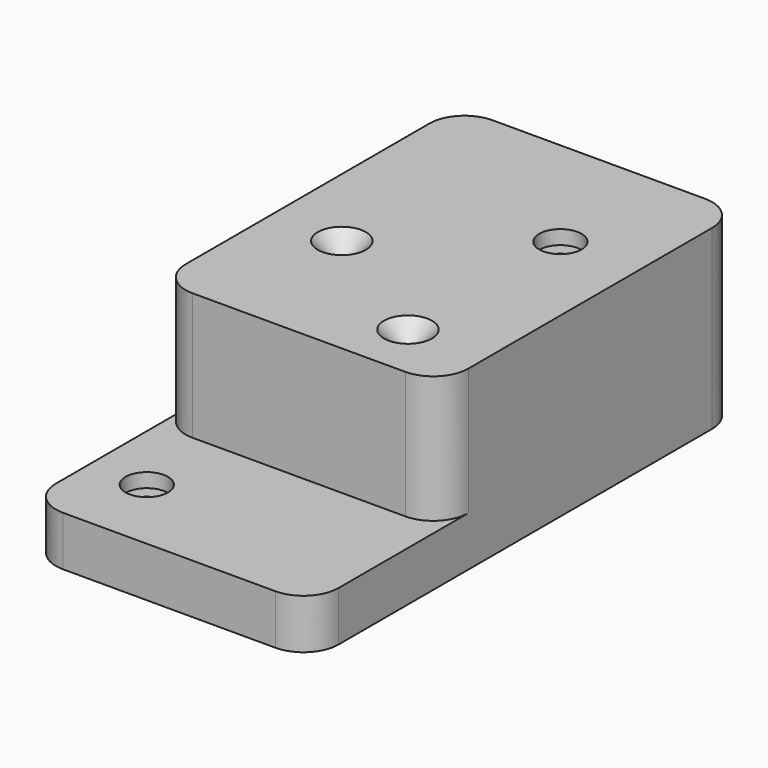
from build123d import *

# Parameters (mm, degrees)
F0_W            = 241.3
F0_H            = 22.352
F1_DEPTH        = 127
F2_R            = 15.748
F3_W            = 127
F3_H            = 168.402
F4_DEPTH        = 57.15
F5_R            = 15.748
F7_D            = 6.35
F7_CBORE_D      = 19.05
F7_CBORE_DEPTH  = 6.35
F9_D            = 6.35
F9_CSINK_D      = 21.59
F9_CSINK_ANGLE  = 82
F10_D           = 6.35
F10_CSINK_D     = 21.59
F10_CSINK_ANGLE = 90
F11_D           = 6.35
F11_CBORE_D     = 19.05
F11_CBORE_DEPTH = 6.35


with BuildPart() as f1:
    # F0 (on Right) → F1 (new body)
    with BuildSketch(Plane.YZ):
        with Locations((120.65, 11.176)):
            Rectangle(F0_W, F0_H)
    extrude(amount=-F1_DEPTH)

    # F2
    f2_edges = [f1.edges().sort_by_distance(p)[0] for p in [
        (0, 0, 11.176),
        (-127, 0, 11.176),
    ]]
    fillet(f2_edges, radius=F2_R)

    # F3 (on face) → F4 (join)
    with BuildSketch(Plane.XY.offset(22.352)):
        with Locations((-63.5, 157.099)):
            Rectangle(F3_W, F3_H)
    extrude(amount=F4_DEPTH)

    # F5
    f5_edges = [f1.edges().sort_by_distance(p)[0] for p in [
        (0, 72.898, 50.927),
        (-127, 72.898, 50.927),
        (0, 241.3, 39.751),
        (-127, 241.3, 39.751),
    ]]
    fillet(f5_edges, radius=F5_R)

    # F7 (through all)
    with Locations(Plane.XY.offset(22.352)):
        with Locations((-101.6, 35.052)):
            CounterBoreHole(F7_D / 2, F7_CBORE_D / 2, F7_CBORE_DEPTH)

    # F9 (through all)
    with Locations(Plane.XY.offset(79.502)):
        with Locations((-95.25, 136.652)):
            CounterSinkHole(F9_D / 2, F9_CSINK_D / 2, counter_sink_angle=F9_CSINK_ANGLE)

    # F10 (through all)
    with Locations(Plane.XY.offset(79.502)):
        with Locations((-35.052, 98.552)):
            CounterSinkHole(F10_D / 2, F10_CSINK_D / 2, counter_sink_angle=F10_CSINK_ANGLE)

    # F11 (through all)
    with Locations(Plane.XY.offset(79.502)):
        with Locations((-35.052, 184.15)):
            CounterBoreHole(F11_D / 2, F11_CBORE_D / 2, F11_CBORE_DEPTH)


solid = f1.part
